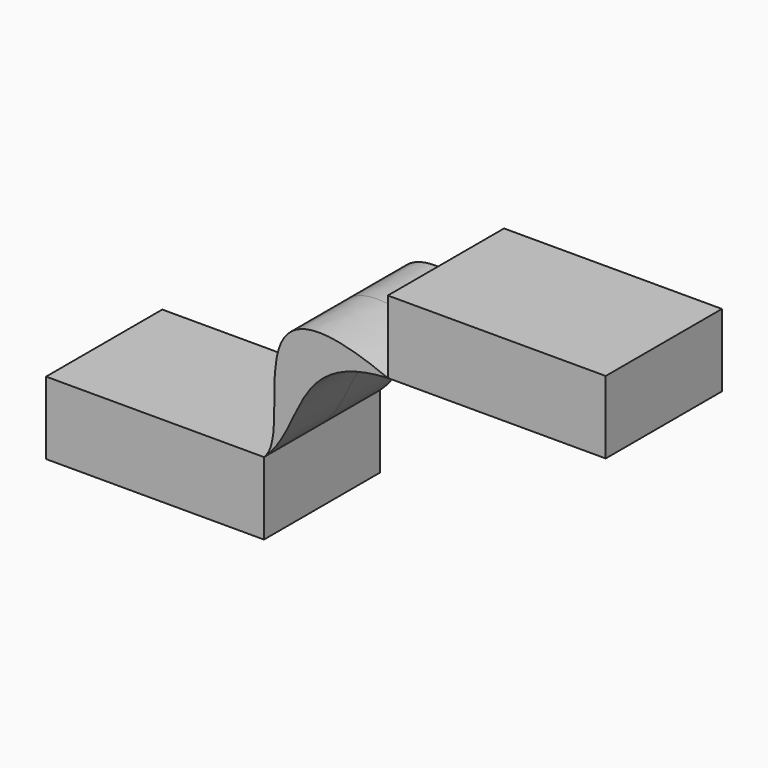
from build123d import *

# Parameters (mm, degrees)
F0_W     = 76.2
F0_H     = 25.4
F1_DEPTH = 25.4


with BuildPart() as f1:
    # F0 (on Front) → F1 (new body, symmetric)
    with BuildSketch(Plane.XZ):
        with Locations((67.731252, 35.559086)):
            Rectangle(F0_W, F0_H)
        with BuildLine():
            add(Edge.make_bspline(
                [(-13.687177, -15.578841), (-2.086119, -4.573528), (-27.825509, 46.495259), (29.631252, 22.859086)],
                knots=[0, 0, 0, 0, 57.913388, 57.913388, 57.913388, 57.913388], degree=3))
            add(Edge.make_bspline(
                [(-13.687177, -15.578841), (0.752299, -2.766199), (-4.514527, 21.065107), (29.631252, 22.859086)],
                knots=[0, 0, 0, 0, 57.913388, 57.913388, 57.913388, 57.913388], degree=3))
        make_face()
        with Locations((-51.787177, -28.278841)):
            Rectangle(F0_W, F0_H)
    extrude(amount=F1_DEPTH, both=True)


solid = f1.part
